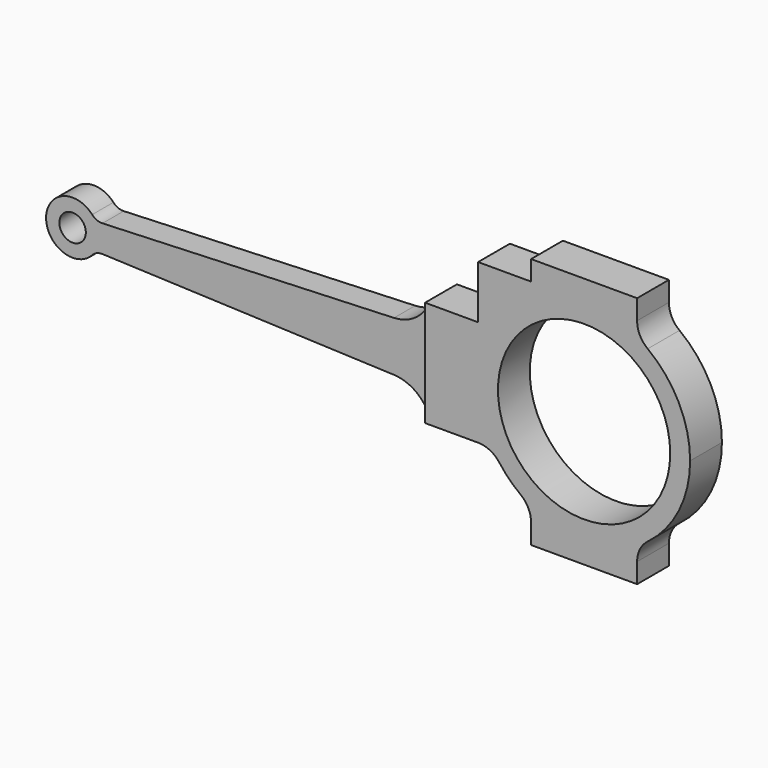
from build123d import *

# Parameters (mm, degrees)
F1_DEPTH = 30.1625
F2_R     = 1.5875
F3_DEPTH = 25.4
F4_R     = 1.5875
F4_R_2   = 10.31875
F5_DEPTH = 25.4


with BuildPart() as f1:
    # F0 (on Top) → F1 (new body)
    with BuildSketch(Plane.XY):
        Polygon((17.641182, 19.748247), (-28.396318, 19.748247), (-28.396318, 16.573247), (17.641182, 16.573247), (17.641182, 15.779497), (49.391182, 15.779497), (49.391182, 20.541997), (17.641182, 20.541997), align=None)
    extrude(amount=F1_DEPTH)

    # F2 (on face) → F3 (cut)
    with BuildSketch(Plane.XZ.offset(-16.573247)):
        with Locations((-25.221318, 15.08125)):
            Circle(F2_R)
        with BuildLine():
            ThreePointArc((-28.396318, 15.08125), (-26.367545, 18.042127), (-22.873931, 17.219099))
            ThreePointArc((-22.873931, 17.219099), (-22.312971, 16.823539), (-21.63746, 16.701765))
            Line((-21.63746, 16.701765), (13.280901, 18.083688))
            ThreePointArc((13.280901, 18.083688), (15.992776, 19.064871), (17.641182, 21.43125))
            Line((17.641182, 21.43125), (17.641182, 30.1625))
            Line((17.641182, 30.1625), (-28.396318, 30.1625))
            Line((-28.396318, 30.1625), (-28.396318, 15.08125))
        make_face()
        with BuildLine():
            ThreePointArc((-21.63746, 13.460735), (-22.312971, 13.338961), (-22.873931, 12.943401))
            ThreePointArc((-22.873931, 12.943401), (-26.367545, 12.120373), (-28.396318, 15.08125))
            Line((-28.396318, 15.08125), (-28.396318, 0))
            Line((-28.396318, 0), (17.641182, 0))
            Line((17.641182, 0), (17.641182, 8.73125))
            ThreePointArc((17.641182, 8.73125), (15.992776, 11.097629), (13.280901, 12.078812))
            Line((13.280901, 12.078812), (-21.63746, 13.460735))
        make_face()
    extrude(amount=-F3_DEPTH, mode=Mode.SUBTRACT)

    # F4 (on face) → F5 (cut)
    with BuildSketch(Plane.XZ.offset(-15.779497)):
        with Locations((-25.221318, 15.08125)):
            Circle(F4_R)
        with BuildLine():
            ThreePointArc((44.311182, 25.24125), (48.050407, 20.760863), (49.391182, 15.08125))
            Line((49.391182, 15.08125), (49.391182, 30.1625))
            Line((49.391182, 30.1625), (43.041182, 30.1625))
            Line((43.041182, 30.1625), (43.041182, 27.78125))
            ThreePointArc((43.041182, 27.78125), (43.376375, 26.361347), (44.311182, 25.24125))
        make_face()
        Polygon((30.341182, 27.78125), (30.341182, 30.1625), (17.641182, 30.1625), (17.641182, 21.43125), (23.991182, 21.43125), (23.991182, 27.78125), align=None)
        with BuildLine():
            Line((49.391182, 0), (49.391182, 15.08125))
            ThreePointArc((49.391182, 15.08125), (48.050407, 9.401637), (44.311182, 4.92125))
            ThreePointArc((44.311182, 4.92125), (43.376375, 3.801153), (43.041182, 2.38125))
            Line((43.041182, 2.38125), (43.041182, 0))
            Line((43.041182, 0), (49.391182, 0))
        make_face()
        with BuildLine():
            Line((17.641182, 0), (30.341182, 0))
            Line((30.341182, 0), (30.341182, 2.38125))
            ThreePointArc((30.341182, 2.38125), (30.005988, 3.801153), (29.071182, 4.92125))
            ThreePointArc((29.071182, 4.92125), (27.710925, 6.100994), (26.531182, 7.46125))
            ThreePointArc((26.531182, 7.46125), (25.411085, 8.396056), (23.991182, 8.73125))
            Line((23.991182, 8.73125), (17.641182, 8.73125))
            Line((17.641182, 8.73125), (17.641182, 0))
        make_face()
        with Locations((36.691182, 15.08125)):
            Circle(F4_R_2)
    extrude(amount=-F5_DEPTH, mode=Mode.SUBTRACT)


solid = f1.part
